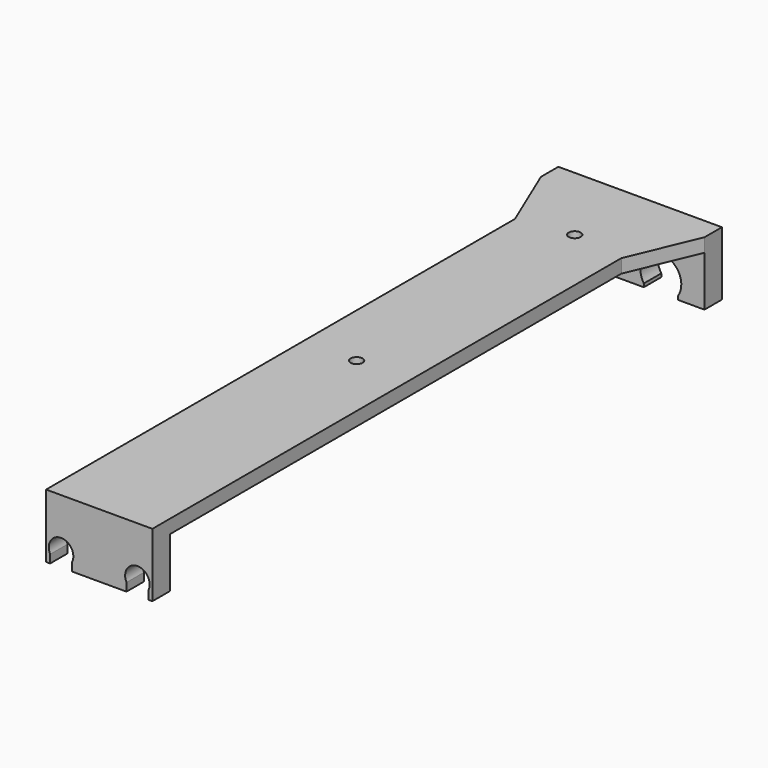
from build123d import *

# Parameters (mm, degrees)
PAD_DEPTH        = 8
SKETCH001_W      = 60
SKETCH001_H      = 5
PAD001_DEPTH     = 240
POCKET_DEPTH     = 5.001
POCKET001_DEPTH  = 5.001
PAD002_DEPTH     = 8
HOLE_D           = 4.4
HOLE_CSINK_D     = 8
HOLE_CSINK_ANGLE = 90


with BuildPart() as part:
    # Sketch → Pad (new body)
    with BuildSketch(Plane.XZ):
        with BuildLine():
            Line((-30, 0), (30, 0))
            Line((30, 0), (30, -23.38422))
            Line((30, -23.38422), (20.25, -23.38422))
            Line((20.25, -22.145781), (20.25, -23.38422))
            ThreePointArc((20.25, -22.145781), (14, -10.5), (7.75, -22.145781))
            Line((7.75, -22.145781), (7.75, -23.38422))
            Line((7.75, -23.38422), (-7.75, -23.38422))
            Line((-7.75, -22.145781), (-7.75, -23.38422))
            ThreePointArc((-7.75, -22.145781), (-14, -10.5), (-20.25, -22.145781))
            Line((-20.25, -22.145781), (-20.25, -23.38422))
            Line((-20.25, -23.38422), (-30, -23.38422))
            Line((-30, -23.38422), (-30, 0))
        make_face()
    extrude(amount=PAD_DEPTH)

    # Sketch001 (on Face14 of Pad) → Pad001 (join)
    with BuildSketch(Plane.XZ.offset(8)):
        with Locations((0, -2.5)):
            Rectangle(SKETCH001_W, SKETCH001_H)
    extrude(amount=PAD001_DEPTH)

    # Sketch002 (on Face15 of Pad001) → Pocket (cut, through all)
    with BuildSketch(Plane(origin=(0, 0, -5), x_dir=(1, 0, 0), z_dir=(0, 0, -1))):
        Polygon((-19.5, 251), (-33, 251), (-33, 0.857143), (-19.5, 33), align=None)
    extrude(amount=-POCKET_DEPTH, mode=Mode.SUBTRACT)

    # Sketch003 (on Face15 of Pocket) → Pocket001 (cut, through all)
    with BuildSketch(Plane(origin=(0, 0, -5), x_dir=(1, 0, 0), z_dir=(0, 0, -1))):
        Polygon((19.5, 251), (33, 251), (33, 0.857143), (19.5, 33), align=None)
    extrude(amount=-POCKET001_DEPTH, mode=Mode.SUBTRACT)

    # Sketch004 (on Face20 of Pocket001) → Pad002 (join)
    with BuildSketch(Plane.XZ.offset(248)):
        with BuildLine():
            Line((-19.5, 0), (19.5, 0))
            Line((19.5, 0), (19.5, -23.38422))
            Line((19.5, -23.38422), (18, -23.38422))
            Line((18, -20.38422), (18, -23.38422))
            ThreePointArc((18, -20.38422), (14, -13.822667), (10, -20.38422))
            Line((10, -20.38422), (10, -23.38422))
            Line((10, -23.38422), (-10, -23.38422))
            Line((-10, -20.38422), (-10, -23.38422))
            ThreePointArc((-10, -20.38422), (-14, -13.822667), (-18, -20.38422))
            Line((-18, -20.38422), (-18, -23.38422))
            Line((-18, -23.38422), (-19.5, -23.38422))
            Line((-19.5, -23.38422), (-19.5, 0))
        make_face()
    extrude(amount=-PAD002_DEPTH)

    # Hole (through all)
    with Locations(Plane(origin=(0, 0, -5), x_dir=(1, 0, 0), z_dir=(0, 0, -1))):
        with Locations((0, 30), (0, 130)):
            CounterSinkHole(HOLE_D / 2, HOLE_CSINK_D / 2, counter_sink_angle=HOLE_CSINK_ANGLE)


solid = part.part
